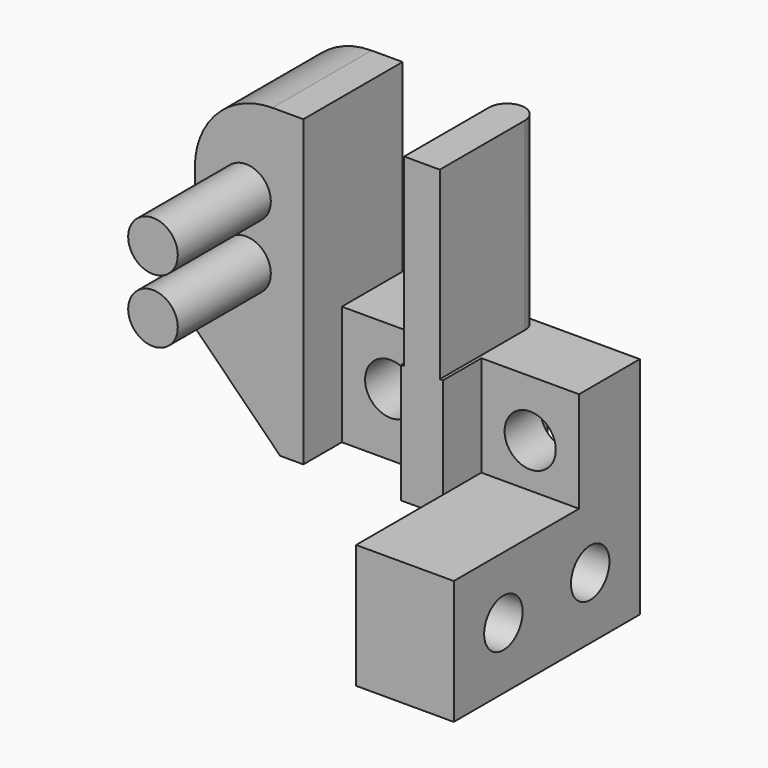
from build123d import *

# Parameters (mm, degrees)
SKETCH_R        = 1.55
PAD_DEPTH       = 6.3
SKETCH002_W     = 5.6
SKETCH002_H     = 5.6
POCKET_DEPTH    = 2
PAD001_DEPTH    = 7.7
SKETCH003_R     = 1.65
POCKET001_DEPTH = 4.901
SKETCH004_W     = 5.6
SKETCH004_H     = 5.6
POCKET002_DEPTH = 2
SKETCH005_W     = 8
SKETCH005_H     = 7
PAD002_DEPTH    = 11.9
SKETCH006_R     = 1.6
PAD003_DEPTH    = 7.5
PAD004_DEPTH    = 11.9
FILLET_R        = 5
CHAMFER_SIZE    = 5.5


with BuildPart() as part:
    # Sketch → Pad (new body)
    with BuildSketch(Plane.YZ):
        Polygon((-4.9, -4.5), (0, -4.5), (0, -19), (-15, -19), (-15, -11), (-4.9, -11), align=None)
        with Locations((-11, -15)):
            Circle(SKETCH_R, mode=Mode.SUBTRACT)
        with Locations((-4, -15)):
            Circle(SKETCH_R, mode=Mode.SUBTRACT)
    extrude(amount=PAD_DEPTH)

    # Sketch002 (on Face9 of Pad) → Pocket (cut)
    with BuildSketch(Plane(origin=(0, 0, 0), x_dir=(0, 1, 0), z_dir=(-1, 0, 0))):
        with Locations((-11, 15)):
            Rectangle(SKETCH002_W, SKETCH002_H)
        with Locations((-4, 15)):
            Rectangle(SKETCH002_W, SKETCH002_H)
    extrude(amount=-POCKET_DEPTH, mode=Mode.SUBTRACT)

    # Sketch001 (on Face1 of Pad) → Pad001 (join)
    with BuildSketch(Plane(origin=(0, 0, -4.5), x_dir=(0, -1, 0), z_dir=(0, 0, 1))):
        Polygon((0, 0), (0, -16), (8, -16), (8, -9), (4.9, -9), (4.9, -2.7), (8, -2.7), (8, 0), align=None)
    extrude(amount=-PAD001_DEPTH)

    # Sketch003 (on Face1 of Pad001) → Pocket001 (cut, through all)
    with BuildSketch(Plane(origin=(0, -4.9, 0), x_dir=(0, 0, -1), z_dir=(0, -1, 0))):
        with Locations((8.15, -5.85)):
            Circle(SKETCH003_R)
        with Locations((8.15, 3.15)):
            Circle(SKETCH003_R)
    extrude(amount=-POCKET001_DEPTH, mode=Mode.SUBTRACT)

    # Sketch004 (on Face10 of Pocket001) → Pocket002 (cut)
    with BuildSketch(Plane.ZX):
        with Locations((-8.15, 3.15)):
            Rectangle(SKETCH004_W, SKETCH004_H)
        with Locations((-8.15, -5.85)):
            Rectangle(SKETCH004_W, SKETCH004_H)
    extrude(amount=-POCKET002_DEPTH, mode=Mode.SUBTRACT)

    # Sketch005 (on Face5 of Pocket002) → Pad002 (join)
    with BuildSketch(Plane(origin=(0, 0, -4.5), x_dir=(0, -1, 0), z_dir=(0, 0, 1))):
        with Locations((4, -12.5)):
            Rectangle(SKETCH005_W, SKETCH005_H)
    extrude(amount=PAD002_DEPTH)

    # Sketch006 (on Face36 of Pad002) → Pad003 (join)
    with BuildSketch(Plane(origin=(0, -8, 0), x_dir=(0, 0, -1), z_dir=(0, -1, 0))):
        with Locations((-2.05, -12.7)):
            Circle(SKETCH006_R)
        with Locations((2.05, -12.7)):
            Circle(SKETCH006_R)
    extrude(amount=PAD003_DEPTH)

    # Sketch007 → Pad004 (join)
    with BuildSketch(Plane(origin=(0, 0, -4.5), x_dir=(0, -1, 0), z_dir=(0, 0, 1))):
        with BuildLine():
            Line((8, -2.5), (1.15, -2.5))
            ThreePointArc((1.15, -0.2), (0, -1.35), (1.15, -2.5))
            Line((1.15, -0.2), (8, -0.2))
            Line((8, -0.2), (8, -2.5))
        make_face()
    extrude(amount=PAD004_DEPTH)

    # Fillet
    fillet_edges = [part.edges().sort_by_distance(p)[0] for p in [
        (-16, -4, 7.4),
    ]]
    fillet(fillet_edges, radius=FILLET_R)

    # Chamfer
    chamfer_edges = [part.edges().sort_by_distance(p)[0] for p in [
        (-16, -4, -12.2),
    ]]
    chamfer(chamfer_edges, length=CHAMFER_SIZE)


solid = part.part
